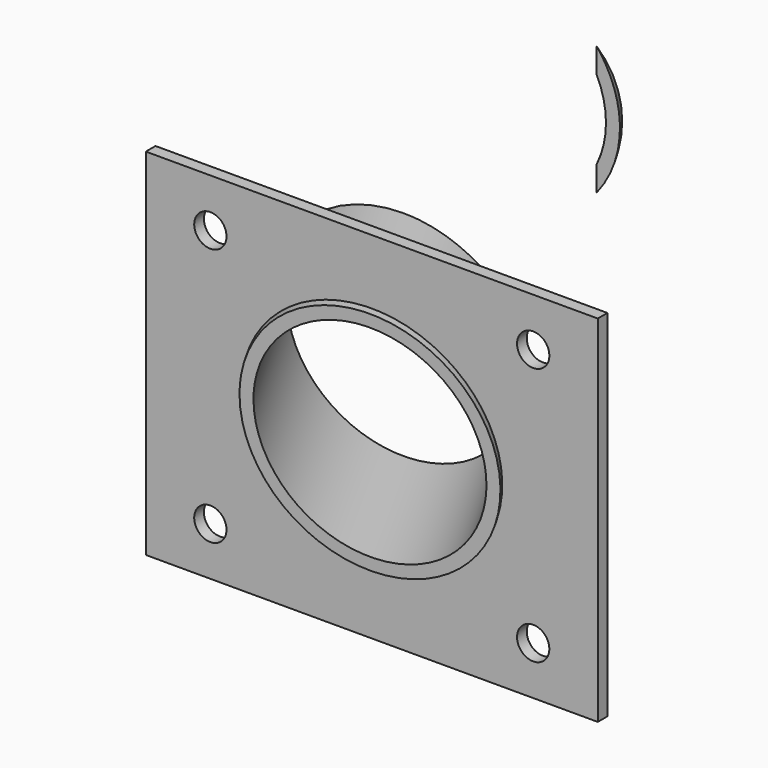
from build123d import *

# Parameters (mm, degrees)
F0_W      = 177.8
F0_H      = 139.7
F1_DEPTH  = 4.7625
F4_R      = 44.45
F5_DEPTH  = 254
F6_R      = 39.6875
F7_DEPTH  = 292.4958291982
F8_W      = 177.8
F8_H      = 76.2
F9_DEPTH  = 50.8
F10_R     = 6.35
F11_DEPTH = 211.9505153341
F12_W     = 266.7
F12_H     = 152.4
F13_DEPTH = 44.45


with BuildPart() as f1:
    # F0 (on Front) → F1 (new body)
    with BuildSketch(Plane.XZ):
        Rectangle(F0_W, F0_H)
    extrude(amount=-F1_DEPTH)

    # F4 (on face) → F5 (join)
    with BuildSketch(Plane(origin=(17.4625, -30.2459372272, 0), x_dir=(-0.8660254038, -0.5, 0), z_dir=(-0.5, 0.8660254038, 0))):
        Circle(F4_R)
    extrude(amount=F5_DEPTH)

    # F6 (on face) → F7 (cut, through all)
    with BuildSketch(Plane(origin=(17.4625, -30.2459372272, 0), x_dir=(-0.8660254038, -0.5, 0), z_dir=(-0.5, 0.8660254038, 0))):
        Circle(F6_R)
    extrude(amount=F7_DEPTH, mode=Mode.SUBTRACT)

    # F8 (on Top) → F9 (cut, symmetric)
    with BuildSketch(Plane.XY):
        with Locations((0, -41.275)):
            Rectangle(F8_W, F8_H)
    extrude(amount=F9_DEPTH, both=True, mode=Mode.SUBTRACT)

    # F10 (on face) → F11 (cut, through all)
    with BuildSketch(Plane.XZ):
        with Locations((-63.5, 50.8)):
            Circle(F10_R)
        with Locations((63.5, 50.8)):
            Circle(F10_R)
        with Locations((-63.5, -50.8)):
            Circle(F10_R)
        with Locations((63.5, -50.8)):
            Circle(F10_R)
    extrude(amount=-F11_DEPTH, mode=Mode.SUBTRACT)

    # F12 (on Top) → F13 (cut, symmetric)
    with BuildSketch(Plane.XY):
        with Locations((-44.45, 131.7625)):
            Rectangle(F12_W, F12_H)
    extrude(amount=F13_DEPTH, both=True, mode=Mode.SUBTRACT)


solid = f1.part
